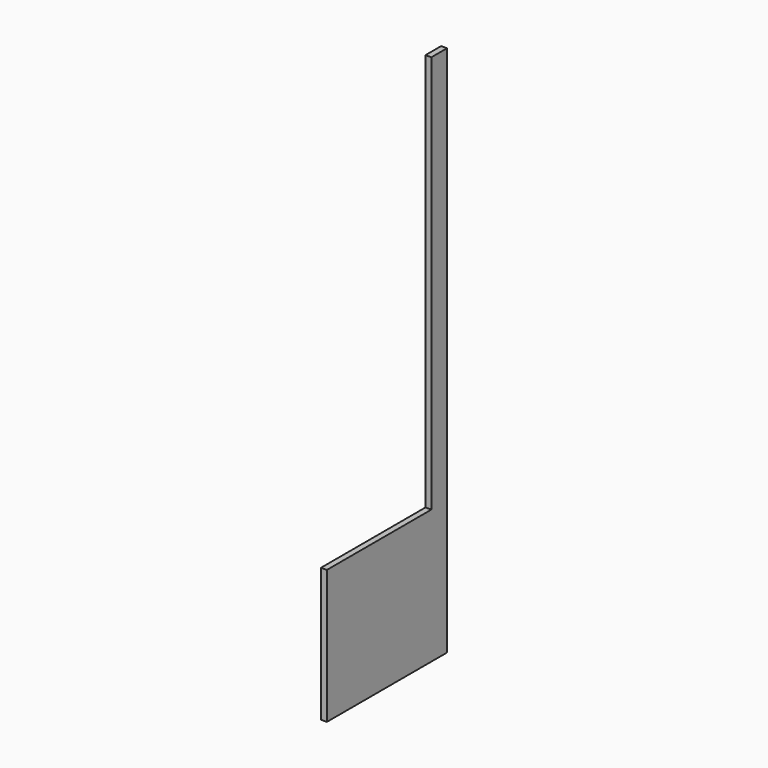
from build123d import *

# Parameters (mm, degrees)
F1_DEPTH = 18
F2_W     = 6
F2_H     = 366
F3_DEPTH = 6
F5_DEPTH = 10
F6_W     = 150
F6_H     = 20
F7_DEPTH = 20


with BuildPart() as f1:
    # F0 (on Right) → F1 (new body)
    with BuildSketch(Plane.YZ):
        Polygon((30, -907.5), (30, 722.5), (-30, 722.5), (-30, -497.5), (-430, -497.5), (-430, -907.5), align=None)
    extrude(amount=F1_DEPTH)

    # F2 (on face) → F3 (cut)
    with BuildSketch(Plane(origin=(0, 0, 0), x_dir=(0, -1, 0), z_dir=(-1, 0, 0))):
        with Locations((-9, -724.5)):
            Rectangle(F2_W, F2_H)
    extrude(amount=-F3_DEPTH, mode=Mode.SUBTRACT)

    # F4 (on face) → F5 (cut)
    with BuildSketch(Plane(origin=(0, 0, 0), x_dir=(0, -1, 0), z_dir=(-1, 0, 0))):
        with BuildLine():
            Line((394.488256, -576.120995), (388.705905, -577.670371))
            ThreePointArc((388.705905, -577.670371), (385.170371, -583.794095), (391.294095, -587.329629))
            Line((391.294095, -587.329629), (391.499671, -587.274545))
            Line((391.499671, -587.274545), (406.464466, -602.23934))
            ThreePointArc((406.464466, -602.23934), (417.200546, -604.472448), (423.529442, -595.517267))
            Line((423.529442, -595.517267), (425.090125, -550.825165))
            ThreePointArc((425.090125, -550.825165), (424.641241, -547.494139), (423.114034, -544.5))
            Line((423.114034, -544.5), (325, -544.5))
            ThreePointArc((325, -544.5), (320, -549.5), (325, -554.5))
            Line((325, -554.5), (414.955701, -554.5))
            Line((414.955701, -554.5), (413.535534, -595.168272))
            Line((413.535534, -595.168272), (394.488256, -576.120995))
        make_face()
    extrude(amount=-F5_DEPTH, mode=Mode.SUBTRACT)

    # F6 (on face) → F7 (join)
    with BuildSketch(Plane(origin=(0, 0, 0), x_dir=(0, -1, 0), z_dir=(-1, 0, 0))):
        with Locations((300, -529.5)):
            Rectangle(F6_W, F6_H)
    extrude(amount=F7_DEPTH)


solid = f1.part
